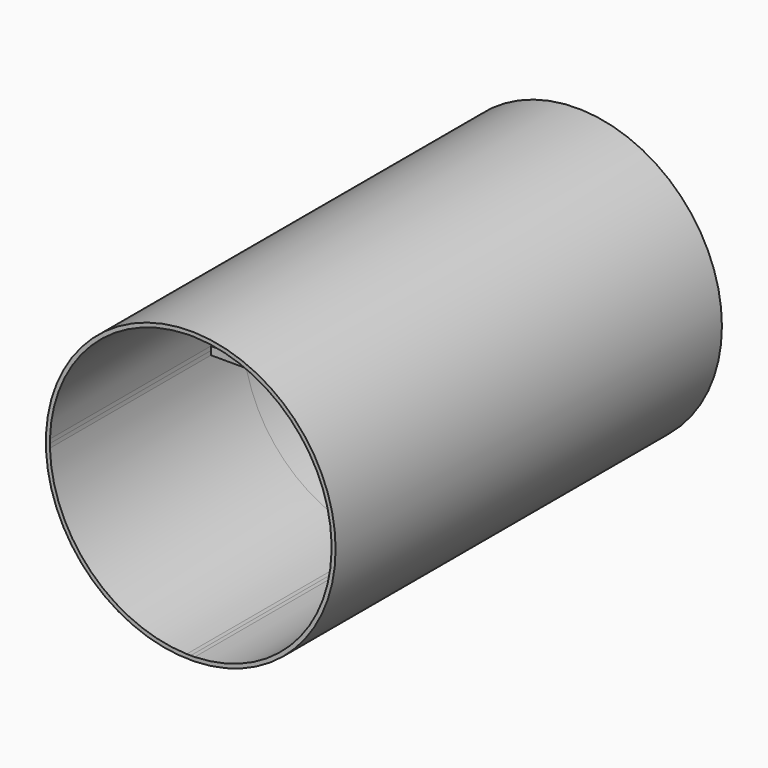
from build123d import *

# Parameters (mm, degrees)
F0_R     = 45.72
F1_DEPTH = 76.2
F2_DEPTH = 12.7


with BuildPart() as f1:
    # F0 (on Front) → F1 (new body, symmetric)
    with BuildSketch(Plane.XZ):
        Circle(F0_R)
        with BuildLine():
            ThreePointArc((44.4318571429, 1.2698704016), (44.4454640543, 0.635), (44.45, 0))
            ThreePointArc((44.45, 0), (44.4454640543, -0.635), (44.4318571429, -1.2698704016))
            ThreePointArc((44.4318571429, -1.2698704016), (31.4308964237, -31.4308964237), (1.2698704016, -44.4318571429))
            ThreePointArc((1.2698704016, -44.4318571429), (0.635, -44.4454640543), (0, -44.45))
            ThreePointArc((0, -44.45), (-0.635, -44.4454640543), (-1.2698704016, -44.4318571429))
            ThreePointArc((-1.2698704016, -44.4318571429), (-31.4308964237, -31.4308964237), (-44.4318571429, -1.2698704016))
            ThreePointArc((-44.4318571429, -1.2698704016), (-44.4454640543, -0.635), (-44.45, 0))
            ThreePointArc((-44.45, 0), (-44.4454640543, 0.635), (-44.4318571429, 1.2698704016))
            ThreePointArc((-44.4318571429, 1.2698704016), (-31.4308964237, 31.4308964237), (-1.2698704016, 44.4318571429))
            ThreePointArc((-1.2698704016, 44.4318571429), (-0.635, 44.4454640543), (0, 44.45))
            ThreePointArc((0, 44.45), (0.635, 44.4454640543), (1.2698704016, 44.4318571429))
            ThreePointArc((1.2698704016, 44.4318571429), (31.4308964237, 31.4308964237), (44.4318571429, 1.2698704016))
        make_face(mode=Mode.SUBTRACT)
    extrude(amount=F1_DEPTH, both=True)

    # F0 (on Front) → F2 (join, symmetric)
    with BuildSketch(Plane.XZ):
        with BuildLine():
            Line((-12.6363534757, 1.2698704016), (-13.7860050542, 1.2698704016))
            ThreePointArc((-13.7860050542, 1.2698704016), (-13.8297690489, 0.635605418), (-13.8443673092, 0))
            Line((-13.8443673092, 0), (-12.7, 0))
            ThreePointArc((-12.7, 0), (-12.6840783887, 0.6357321993), (-12.6363534757, 1.2698704016))
        make_face()
        with BuildLine():
            Line((-13.7860050542, 1.2698704016), (-44.4318571429, 1.2698704016))
            ThreePointArc((-44.4318571429, 1.2698704016), (-44.4454640543, 0.635), (-44.45, 0))
            Line((-44.45, 0), (-13.8443673092, 0))
            ThreePointArc((-13.8443673092, 0), (-13.8297690489, 0.635605418), (-13.7860050542, 1.2698704016))
        make_face()
        with BuildLine():
            Line((1.2698704016, 12.6363534757), (1.2698704016, 13.7860050542))
            ThreePointArc((1.2698704016, 13.7860050542), (0.635605418, 13.8297690489), (0, 13.8443673092))
            Line((0, 13.8443673092), (0, 12.7))
            ThreePointArc((0, 12.7), (0.6357321993, 12.6840783887), (1.2698704016, 12.6363534757))
        make_face()
        with BuildLine():
            Line((1.2698704016, 13.7860050542), (1.2698704016, 44.4318571429))
            ThreePointArc((1.2698704016, 44.4318571429), (0.635, 44.4454640543), (0, 44.45))
            Line((0, 44.45), (0, 13.8443673092))
            ThreePointArc((0, 13.8443673092), (0.635605418, 13.8297690489), (1.2698704016, 13.7860050542))
        make_face()
        with BuildLine():
            Line((12.7, 0), (13.8443673092, 0))
            ThreePointArc((13.8443673092, 0), (13.8297690489, 0.635605418), (13.7860050542, 1.2698704016))
            Line((13.7860050542, 1.2698704016), (12.6363534757, 1.2698704016))
            ThreePointArc((12.6363534757, 1.2698704016), (12.6840783887, 0.6357321993), (12.7, 0))
        make_face()
        with BuildLine():
            Line((13.8443673092, 0), (44.45, 0))
            ThreePointArc((44.45, 0), (44.4454640543, 0.635), (44.4318571429, 1.2698704016))
            Line((44.4318571429, 1.2698704016), (13.7860050542, 1.2698704016))
            ThreePointArc((13.7860050542, 1.2698704016), (13.8297690489, 0.635605418), (13.8443673092, 0))
        make_face()
        with BuildLine():
            ThreePointArc((-1.2698704016, -13.7860050542), (-0.635605418, -13.8297690489), (0, -13.8443673092))
            Line((0, -13.8443673092), (0, -12.7))
            ThreePointArc((0, -12.7), (-0.6357321993, -12.6840783887), (-1.2698704016, -12.6363534757))
            Line((-1.2698704016, -12.6363534757), (-1.2698704016, -13.7860050542))
        make_face()
        with BuildLine():
            ThreePointArc((-1.2698704016, -44.4318571429), (-0.635, -44.4454640543), (0, -44.45))
            Line((0, -44.45), (0, -13.8443673092))
            ThreePointArc((0, -13.8443673092), (-0.635605418, -13.8297690489), (-1.2698704016, -13.7860050542))
            Line((-1.2698704016, -13.7860050542), (-1.2698704016, -44.4318571429))
        make_face()
        with BuildLine():
            ThreePointArc((0, -13.8443673092), (0.635605418, -13.8297690489), (1.2698704016, -13.7860050542))
            Line((1.2698704016, -13.7860050542), (1.2698704016, -12.6363534757))
            ThreePointArc((1.2698704016, -12.6363534757), (0.6357321993, -12.6840783887), (0, -12.7))
            Line((0, -12.7), (0, -13.8443673092))
        make_face()
        with BuildLine():
            ThreePointArc((0, -44.45), (0.635, -44.4454640543), (1.2698704016, -44.4318571429))
            Line((1.2698704016, -44.4318571429), (1.2698704016, -13.7860050542))
            ThreePointArc((1.2698704016, -13.7860050542), (0.635605418, -13.8297690489), (0, -13.8443673092))
            Line((0, -13.8443673092), (0, -44.45))
        make_face()
        with BuildLine():
            ThreePointArc((-13.8443673092, 0), (-13.8297690489, -0.635605418), (-13.7860050542, -1.2698704016))
            Line((-13.7860050542, -1.2698704016), (-12.6363534757, -1.2698704016))
            ThreePointArc((-12.6363534757, -1.2698704016), (-12.6840783887, -0.6357321993), (-12.7, 0))
            Line((-12.7, 0), (-13.8443673092, 0))
        make_face()
        with BuildLine():
            ThreePointArc((-44.45, 0), (-44.4454640543, -0.635), (-44.4318571429, -1.2698704016))
            Line((-44.4318571429, -1.2698704016), (-13.7860050542, -1.2698704016))
            ThreePointArc((-13.7860050542, -1.2698704016), (-13.8297690489, -0.635605418), (-13.8443673092, 0))
            Line((-13.8443673092, 0), (-44.45, 0))
        make_face()
        with BuildLine():
            ThreePointArc((13.7860050542, -1.2698704016), (13.8297690489, -0.635605418), (13.8443673092, 0))
            Line((13.8443673092, 0), (12.7, 0))
            ThreePointArc((12.7, 0), (12.6840783887, -0.6357321993), (12.6363534757, -1.2698704016))
            Line((12.6363534757, -1.2698704016), (13.7860050542, -1.2698704016))
        make_face()
        with BuildLine():
            ThreePointArc((44.4318571429, -1.2698704016), (44.4454640543, -0.635), (44.45, 0))
            Line((44.45, 0), (13.8443673092, 0))
            ThreePointArc((13.8443673092, 0), (13.8297690489, -0.635605418), (13.7860050542, -1.2698704016))
            Line((13.7860050542, -1.2698704016), (44.4318571429, -1.2698704016))
        make_face()
        with BuildLine():
            ThreePointArc((-13.7860050542, -1.2698704016), (-9.7894460056, -9.7894460056), (-1.2698704016, -13.7860050542))
            Line((-1.2698704016, -13.7860050542), (-1.2698704016, -12.6363534757))
            ThreePointArc((-1.2698704016, -12.6363534757), (-8.9802561211, -8.9802561211), (-12.6363534757, -1.2698704016))
            Line((-12.6363534757, -1.2698704016), (-13.7860050542, -1.2698704016))
        make_face()
        with BuildLine():
            ThreePointArc((1.2698704016, -13.7860050542), (9.7894460056, -9.7894460056), (13.7860050542, -1.2698704016))
            Line((13.7860050542, -1.2698704016), (12.6363534757, -1.2698704016))
            ThreePointArc((12.6363534757, -1.2698704016), (8.9802561211, -8.9802561211), (1.2698704016, -12.6363534757))
            Line((1.2698704016, -12.6363534757), (1.2698704016, -13.7860050542))
        make_face()
        with BuildLine():
            Line((12.6363534757, 1.2698704016), (13.7860050542, 1.2698704016))
            ThreePointArc((13.7860050542, 1.2698704016), (9.7894460056, 9.7894460056), (1.2698704016, 13.7860050542))
            Line((1.2698704016, 13.7860050542), (1.2698704016, 12.6363534757))
            ThreePointArc((1.2698704016, 12.6363534757), (8.9802561211, 8.9802561211), (12.6363534757, 1.2698704016))
        make_face()
        with BuildLine():
            Line((-1.2698704016, 12.6363534757), (-1.2698704016, 13.7860050542))
            ThreePointArc((-1.2698704016, 13.7860050542), (-9.7894460056, 9.7894460056), (-13.7860050542, 1.2698704016))
            Line((-13.7860050542, 1.2698704016), (-12.6363534757, 1.2698704016))
            ThreePointArc((-12.6363534757, 1.2698704016), (-8.9802561211, 8.9802561211), (-1.2698704016, 12.6363534757))
        make_face()
        with BuildLine():
            Line((0, 13.8443673092), (0, 44.45))
            ThreePointArc((0, 44.45), (-0.635, 44.4454640543), (-1.2698704016, 44.4318571429))
            Line((-1.2698704016, 44.4318571429), (-1.2698704016, 13.7860050542))
            ThreePointArc((-1.2698704016, 13.7860050542), (-0.635605418, 13.8297690489), (0, 13.8443673092))
        make_face()
        with BuildLine():
            Line((0, 12.7), (0, 13.8443673092))
            ThreePointArc((0, 13.8443673092), (-0.635605418, 13.8297690489), (-1.2698704016, 13.7860050542))
            Line((-1.2698704016, 13.7860050542), (-1.2698704016, 12.6363534757))
            ThreePointArc((-1.2698704016, 12.6363534757), (-0.6357321993, 12.6840783887), (0, 12.7))
        make_face()
    extrude(amount=F2_DEPTH, both=True)


solid = f1.part
